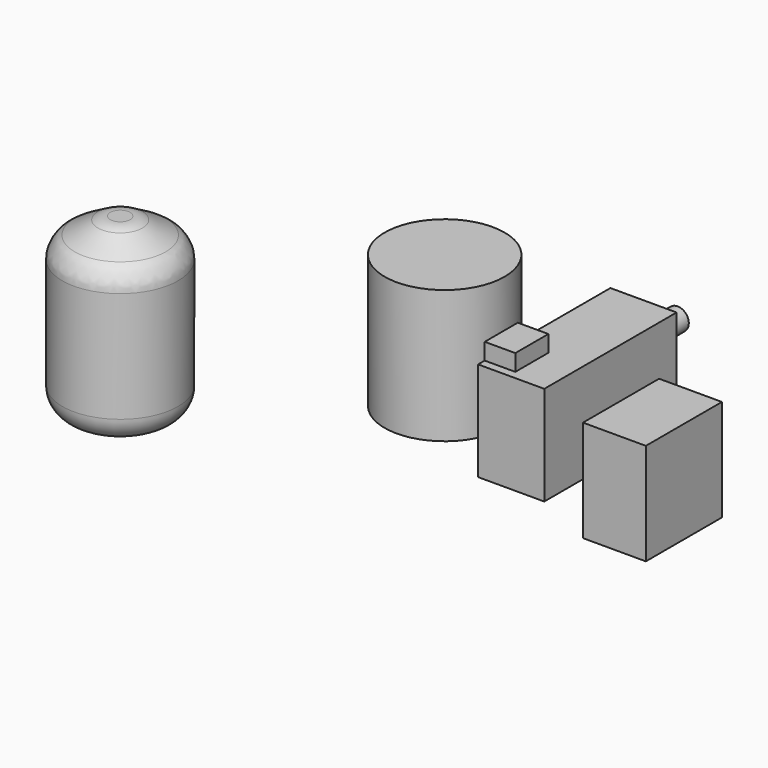
from build123d import *

# Parameters (mm, degrees)
F0_W      = 760
F0_H      = 1150
F1_DEPTH  = 1230
F2_R      = 725
F3_DEPTH  = 1610
F4_W      = 800
F4_H      = 2000
F5_DEPTH  = 1200
F6_W      = 370
F6_H      = 500
F7_DEPTH  = 200
F8_R      = 700
F9_DEPTH  = 2100
F10_R     = 300
F11_SIZE2 = 288.6751345948
F11_SIZE  = 500
F12_R     = 300
F13_R     = 134.8362131301
F14_DEPTH = 400


with BuildPart() as f1:
    # F0 (on Top) → F1 (new body)
    with BuildSketch(Plane.XY):
        with Locations((-31.4733404666, -119.2426998605)):
            Rectangle(F0_W, F0_H)
    extrude(amount=F1_DEPTH)


with BuildPart() as f3:
    # F2 (on Top) → F3 (new body)
    with BuildSketch(Plane.XY):
        with Locations((-3121.7975616455, 602.2063493729)):
            Circle(F2_R)
    extrude(amount=F3_DEPTH)


with BuildPart() as f5:
    # F4 (on Top) → F5 (new body)
    with BuildSketch(Plane.XY):
        with Locations((-1564.8182034492, 661.7751377383)):
            Rectangle(F4_W, F4_H)
    extrude(amount=F5_DEPTH)

    # F6 (on face) → F7 (join)
    with BuildSketch(Plane.XY.offset(1200)):
        with Locations((-1779.8182034492, 11.7751377383)):
            Rectangle(F6_W, F6_H)
    extrude(amount=F7_DEPTH)

    # F13 (on face) → F14 (join)
    with BuildSketch(Plane(origin=(0, 1661.7751377383, 0), x_dir=(-1, 0, 0), z_dir=(0, 1, 0))):
        with Locations((1471.7646837234, 867.94257164)):
            Circle(F13_R)
    extrude(amount=F14_DEPTH)


with BuildPart() as f9:
    # F8 (on Top) → F9 (new body)
    with BuildSketch(Plane.XY):
        with Locations((-5419.2771911621, -1430.2269220352)):
            Circle(F8_R)
    extrude(amount=F9_DEPTH)

    # F10
    f10_edges = [f9.edges().sort_by_distance(p)[0] for p in [
        (-6119.277191, -1430.226922, 0),
    ]]
    fillet(f10_edges, radius=F10_R)

    # F11
    f11_edges = [f9.edges().sort_by_distance(p)[0] for p in [
        (-6119.277191, -1430.226922, 2100),
    ]]
    f11_side = f9.faces().sort_by_distance((-5419.277191, -1430.226922, 2100))[0]
    chamfer(f11_edges, length=F11_SIZE, length2=F11_SIZE2, reference=f11_side)

    # F12
    f12_edges = [f9.edges().sort_by_distance(p)[0] for p in [
        (-6119.277191, -1430.226922, 1811.324865),
        (-5619.277191, -1430.226922, 2100),
    ]]
    fillet(f12_edges, radius=F12_R)


solid = Compound([f1.part, f3.part, f5.part, f9.part])
